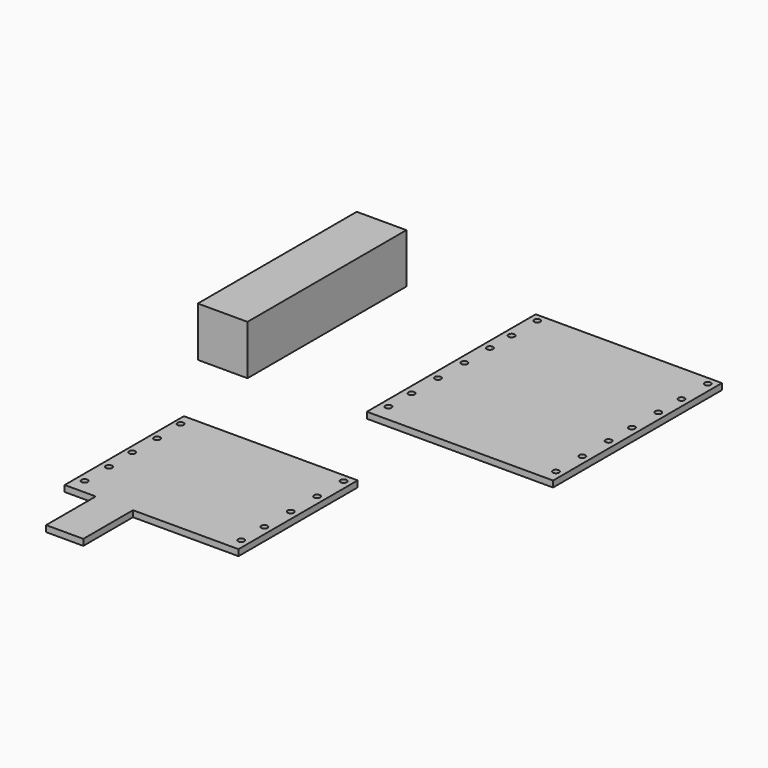
from build123d import *

# Parameters (mm, degrees)
F0_W      = 88.9
F0_H      = 76.2
F1_DEPTH  = 3.175
F2_W      = 95.25
F2_H      = 107.95
F3_DEPTH  = 3.175
F4_W      = 25.4
F4_H      = 101.6
F5_DEPTH  = 25.4
F7_D      = 3.175
F9_D      = 3.175
F11_D     = 3.175
F13_D     = 3.175
F15_D     = 3.175
F17_D     = 3.175
F19_D     = 3.175
F20_W     = 19.05
F20_H     = 3.175
F21_DEPTH = 31.75


with BuildPart() as f1:
    # F0 (on Top) → F1 (new body)
    with BuildSketch(Plane.XY):
        with Locations((-44.45, -38.1)):
            Rectangle(F0_W, F0_H)
    extrude(amount=F1_DEPTH)

    # F17 (through all)
    with Locations(Plane.XY.offset(3.175)):
        with Locations((-85.764715, -6.035259), (-85.306305, -21.649532), (-85.547159, -37.268675), (-84.8995, -52.876243), (-84.8995, -68.497243)):
            Hole(F17_D / 2)

    # F19 (through all)
    with Locations(Plane.XY.offset(3.175)):
        with Locations((-4.0005, -4.0005), (-4.0005, -20.8915), (-4.0005, -37.7825), (-4.0005, -54.6735), (-4.0005, -69.469)):
            Hole(F19_D / 2)

    # F20 (on face) → F21 (join)
    with BuildSketch(Plane.XZ.offset(76.2)):
        with Locations((-63.5, 1.5875)):
            Rectangle(F20_W, F20_H)
    extrude(amount=F21_DEPTH)


with BuildPart() as f3:
    # F2 (on Top) → F3 (new body)
    with BuildSketch(Plane.XY):
        with Locations((13.391344, 102.65274)):
            Rectangle(F2_W, F2_H)
    extrude(amount=F3_DEPTH)

    # F7 (through all)
    with Locations(Plane.XY.offset(3.175)):
        with Locations((-30.233156, 152.62724)):
            Hole(F7_D / 2)

    # F9 (through all)
    with Locations(Plane.XY.offset(3.175)):
        with Locations((-30.233156, 136.24424)):
            Hole(F9_D / 2)

    # F11 (through all)
    with Locations(Plane.XY.offset(3.175)):
        with Locations((-30.29733, 122.401376)):
            Hole(F11_D / 2)

    # F13 (through all)
    with Locations(Plane.XY.offset(3.175)):
        with Locations((-30.233156, 106.018502), (-30.233156, 89.127502), (-30.233156, 72.236502), (-30.233156, 57.441002)):
            Hole(F13_D / 2)

    # F15 (through all)
    with Locations(Plane.XY.offset(3.175)):
        with Locations((57.015844, 152.62724), (57.015844, 135.73624), (57.015844, 120.94074), (57.015844, 104.04974), (56.952344, 89.254376), (57.015844, 72.363496), (57.015844, 55.472496)):
            Hole(F15_D / 2)


with BuildPart() as f5:
    # F4 (on Top) → F5 (new body)
    with BuildSketch(Plane.XY):
        with Locations((-106.070742, 97.052093)):
            Rectangle(F4_W, F4_H)
    extrude(amount=F5_DEPTH)


solid = Compound([f1.part, f3.part, f5.part])
